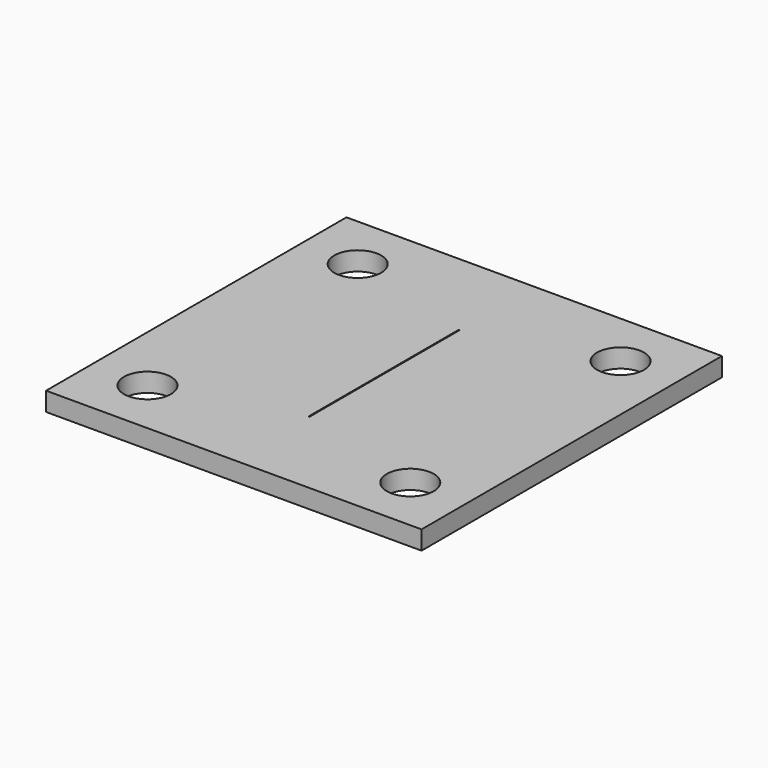
from build123d import *

# Parameters (mm, degrees)
F0_W     = 20
F0_H     = 20
F1_DEPTH = 1
F2_W     = 0.05
F2_H     = 10
F3_DEPTH = 25
F5_D     = 2.5


with BuildPart() as f1:
    # F0 (on Top) → F1 (new body)
    with BuildSketch(Plane.XY):
        Rectangle(F0_W, F0_H)
    extrude(amount=F1_DEPTH)

    # F2 (on face) → F3 (cut)
    with BuildSketch(Plane.XY.offset(1)):
        Rectangle(F2_W, F2_H)
    extrude(amount=-F3_DEPTH, mode=Mode.SUBTRACT)

    # F5 (through all)
    with Locations(Plane.XY.offset(1)):
        with Locations((-7, -7), (7, -7), (7, 7), (-7, 7)):
            Hole(F5_D / 2)


solid = f1.part
